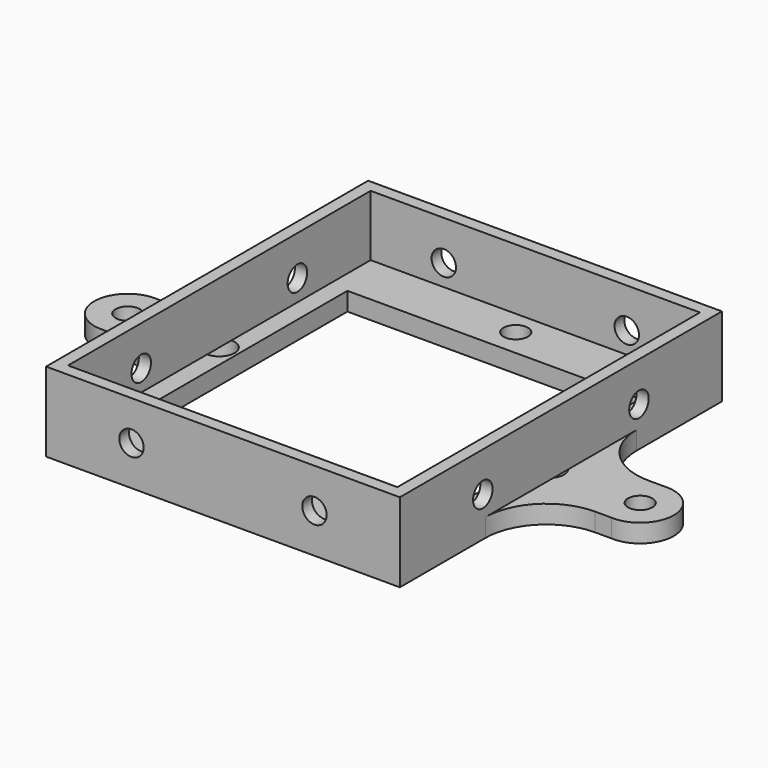
from build123d import *

# Parameters (mm, degrees)
F0_R     = 2
F0_R_2   = 2.5
F0_W     = 48
F0_H     = 45
F1_DEPTH = 3
F2_W     = 58
F2_H     = 66
F2_W_2   = 54
F2_H_2   = 62
F3_DEPTH = 10
F4_R     = 2
F5_DEPTH = 150
F6_R     = 2
F7_DEPTH = 150


with BuildPart() as f1:
    # F0 (on Top) → F1 (new body)
    with BuildSketch(Plane.XY):
        with BuildLine():
            Line((-29, -33), (29, -33))
            Line((29, -33), (29, -15.492203))
            ThreePointArc((29, -15.492203), (31.928932, -8.421135), (39, -5.492203))
            Line((39, -5.492203), (41.707241, -5.492203))
            ThreePointArc((41.707241, -5.492203), (47.49805, -0.146431), (42, 5.5))
            Line((42, 5.5), (39, 5.5))
            ThreePointArc((39, 5.5), (31.928932, 8.428932), (29, 15.5))
            Line((29, 15.5), (29, 33))
            Line((29, 33), (-29, 33))
            Line((-29, 33), (-29, 15.5))
            ThreePointArc((-29, 15.5), (-31.928932, 8.428932), (-39, 5.5))
            Line((-39, 5.5), (-42, 5.5))
            ThreePointArc((-42, 5.5), (-47.49805, -0.146431), (-41.707241, -5.492203))
            Line((-41.707241, -5.492203), (-39, -5.492203))
            ThreePointArc((-39, -5.492203), (-31.928932, -8.421135), (-29, -15.492203))
            Line((-29, -15.492203), (-29, -33))
        make_face()
        with Locations((0, -27)):
            Circle(F0_R, mode=Mode.SUBTRACT)
        with Locations((-42, 0)):
            Circle(F0_R, mode=Mode.SUBTRACT)
        with Locations((-27, 0)):
            Circle(F0_R_2, mode=Mode.SUBTRACT)
        Rectangle(F0_W, F0_H, mode=Mode.SUBTRACT)
        with Locations((27, 0)):
            Circle(F0_R_2, mode=Mode.SUBTRACT)
        with Locations((42, 0)):
            Circle(F0_R, mode=Mode.SUBTRACT)
        with Locations((0, 27)):
            Circle(F0_R, mode=Mode.SUBTRACT)
    extrude(amount=F1_DEPTH)

    # F2 (on face) → F3 (join)
    with BuildSketch(Plane.XY.offset(3)):
        Rectangle(F2_W, F2_H)
        Rectangle(F2_W_2, F2_H_2, mode=Mode.SUBTRACT)
    extrude(amount=F3_DEPTH)

    # F4 (on face) → F5 (cut)
    with BuildSketch(Plane.XZ.offset(33)):
        with Locations((-15, 6.5)):
            Circle(F4_R)
        with Locations((15, 6.5)):
            Circle(F4_R)
    extrude(amount=-F5_DEPTH, mode=Mode.SUBTRACT)

    # F6 (on face) → F7 (cut)
    with BuildSketch(Plane.YZ.offset(29)):
        with Locations((-16, 6.5)):
            Circle(F6_R)
        with Locations((16, 6.5)):
            Circle(F6_R)
    extrude(amount=-F7_DEPTH, mode=Mode.SUBTRACT)


solid = f1.part
